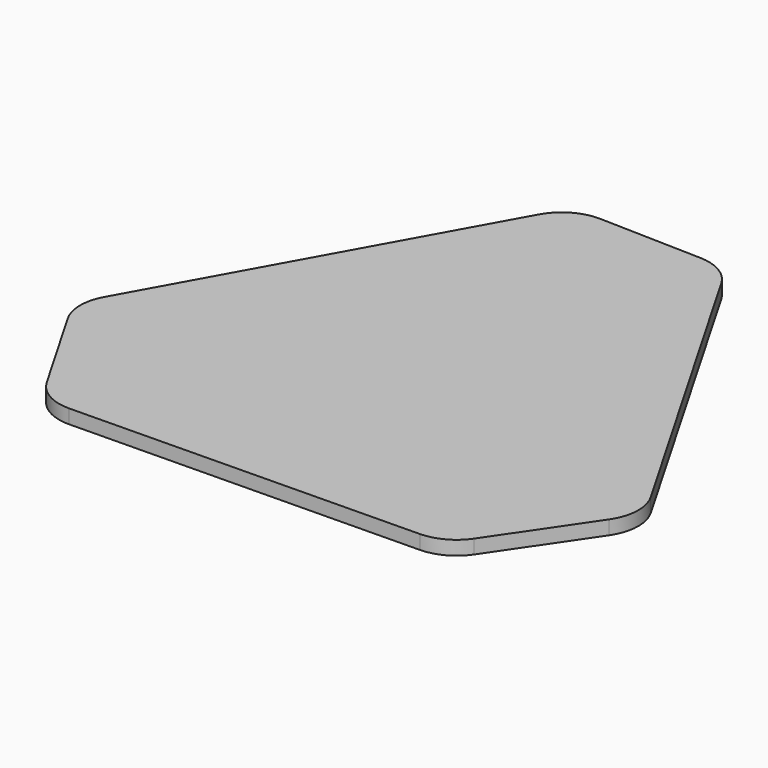
from build123d import *

# Parameters (mm, degrees)
F1_DEPTH = 3


with BuildPart() as f1:
    # F0 (on Top) → F1 (new body)
    with BuildSketch(Plane.XY):
        with BuildLine():
            ThreePointArc((-11.427042, 63.708016), (-16.65627, 62.394296), (-20.443314, 58.556462))
            Line((-20.443314, 58.556462), (-58.532062, -10.217706))
            ThreePointArc((-58.532062, -10.217706), (-59.78363, -15.155724), (-58.440266, -20.069564))
            Line((-58.440266, -20.069564), (-46.68881, -40.385671))
            ThreePointArc((-46.68881, -40.385671), (-42.963415, -44.078496), (-37.881282, -45.377515))
            Line((-37.881282, -45.377515), (36.319198, -44.254545))
            ThreePointArc((36.319198, -44.254545), (40.91258, -43.058403), (44.436984, -39.879016))
            Line((44.436984, -39.879016), (57.721313, -20.344385))
            ThreePointArc((57.721313, -20.344385), (59.44543, -15.089002), (58.112456, -9.721059))
            Line((58.112456, -9.721059), (18.943376, 58.121778))
            ThreePointArc((18.943376, 58.121778), (15.398848, 61.714178), (10.551396, 63.118179))
            Line((10.551396, 63.118179), (-11.427042, 63.708016))
        make_face()
    extrude(amount=F1_DEPTH)


solid = f1.part
